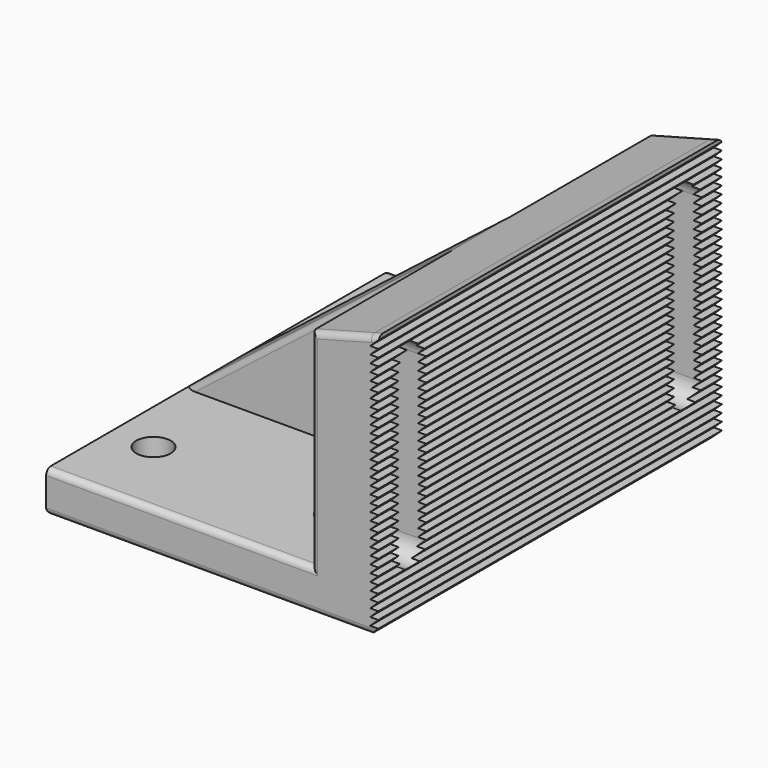
from build123d import *

# Parameters (mm, degrees)
F1_DEPTH = 106
F3_DEPTH = 43
F5_DEPTH = 43
F7_DEPTH = 16.489887
F8_R     = 4.25
F9_DEPTH = 10.001
F10_R    = 1.5


with BuildPart() as f1:
    # F0 (on Front) → F1 (new body)
    with BuildSketch(Plane.XZ):
        Polygon((-80, 0), (0, 0), (2, 1.9), (0, 1.9), (2, 3.8), (0, 3.8), (2, 5.7), (0, 5.7), (2, 7.6), (0, 7.6), (2, 9.5), (0, 9.5), (2, 11.4), (0, 11.4), (2, 13.3), (0, 13.3), (2, 15.2), (0, 15.2), (2, 17.1), (0, 17.1), (2, 19), (0, 19), (2, 20.9), (0, 20.9), (2, 22.8), (0, 22.8), (2, 24.7), (0, 24.7), (2, 26.6), (0, 26.6), (2, 28.5), (0, 28.5), (2, 30.4), (0, 30.4), (2, 32.3), (0, 32.3), (2, 34.2), (0, 34.2), (2, 36.1), (0, 36.1), (2, 38), (0, 38), (2, 39.9), (0, 39.9), (2, 41.8), (0, 41.8), (2, 43.7), (0, 43.7), (2, 45.6), (0, 45.6), (2, 47.5), (0, 47.5), (2, 49.4), (0, 49.4), (2, 51.3), (0, 51.3), (2, 53.2), (0, 53.2), (2, 55.1), (0, 55.1), (2, 57), (0, 57), (2, 58.9), (0, 58.9), (2, 60.8), (0, 60.8), (2, 62.7), (0, 62.7), (2, 64.6), (2, 65), (2, 65.535898), (0, 65), (-14.488887, 61.117714), (-80, 10), align=None)
    extrude(amount=F1_DEPTH)

    # F2 (on face) → F3 (cut)
    with BuildSketch(Plane.XZ.offset(106)):
        Polygon((-14.488887, 10), (-14.488887, 61.117714), (-80, 10), align=None)
    extrude(amount=-F3_DEPTH, mode=Mode.SUBTRACT)

    # F4 (on face) → F5 (cut)
    with BuildSketch(Plane(origin=(0, 0, 0), x_dir=(-1, 0, 0), z_dir=(0, 1, 0))):
        Polygon((80, 10), (14.488887, 61.117714), (14.488887, 10), align=None)
    extrude(amount=-F5_DEPTH, mode=Mode.SUBTRACT)

    # F6 (on face) → F7 (cut, through all)
    with BuildSketch(Plane(origin=(-14.488887, 0, 0), x_dir=(0, -1, 0), z_dir=(-1, 0, 0))):
        with BuildLine():
            ThreePointArc((6.25, 15), (10.5, 19.25), (14.75, 15))
            Line((14.75, 15), (14.75, 55))
            ThreePointArc((14.75, 55), (10.5, 50.75), (6.25, 55))
            Line((6.25, 55), (6.25, 15))
        make_face()
        with BuildLine():
            ThreePointArc((6.25, 55), (10.5, 50.75), (14.75, 55))
            ThreePointArc((14.75, 55), (10.5, 59.25), (6.25, 55))
        make_face()
        with BuildLine():
            ThreePointArc((6.25, 15), (10.5, 10.75), (14.75, 15))
            ThreePointArc((14.75, 15), (10.5, 19.25), (6.25, 15))
        make_face()
        with BuildLine():
            ThreePointArc((91.25, 55), (95.5, 50.75), (99.75, 55))
            ThreePointArc((99.75, 55), (95.5, 59.25), (91.25, 55))
        make_face()
        with BuildLine():
            Line((99.75, 15), (99.75, 55))
            ThreePointArc((99.75, 55), (95.5, 50.75), (91.25, 55))
            Line((91.25, 55), (91.25, 15))
            ThreePointArc((91.25, 15), (95.5, 19.25), (99.75, 15))
        make_face()
        with BuildLine():
            ThreePointArc((91.25, 15), (95.5, 10.75), (99.75, 15))
            ThreePointArc((99.75, 15), (95.5, 19.25), (91.25, 15))
        make_face()
    extrude(amount=-F7_DEPTH, mode=Mode.SUBTRACT)

    # F8 (on face) → F9 (cut, through all)
    with BuildSketch(Plane.XY.offset(10)):
        with Locations((-69.488887, -20)):
            Circle(F8_R)
        with Locations((-24.488887, -20)):
            Circle(F8_R)
        with Locations((-24.488887, -86)):
            Circle(F8_R)
        with Locations((-69.488887, -86)):
            Circle(F8_R)
    extrude(amount=-F9_DEPTH, mode=Mode.SUBTRACT)

    # F10
    f10_edges = [f1.edges().sort_by_distance(p)[0] for p in [
        (-40, 0, 0),
        (-80, -53, 0),
        (-40, -106, 0),
        (-47.244444, 0, 10),
        (-80, 0, 5),
        (-47.244444, -43, 35.558857),
        (-47.244444, -63, 35.558857),
        (-47.244444, -106, 10),
        (-14.488887, -106, 35.558857),
        (-6.244444, -106, 63.326806),
        (-14.488887, 0, 35.558857),
        (-6.244444, 0, 63.326806),
    ]]
    fillet(f10_edges, radius=F10_R)


solid = f1.part
